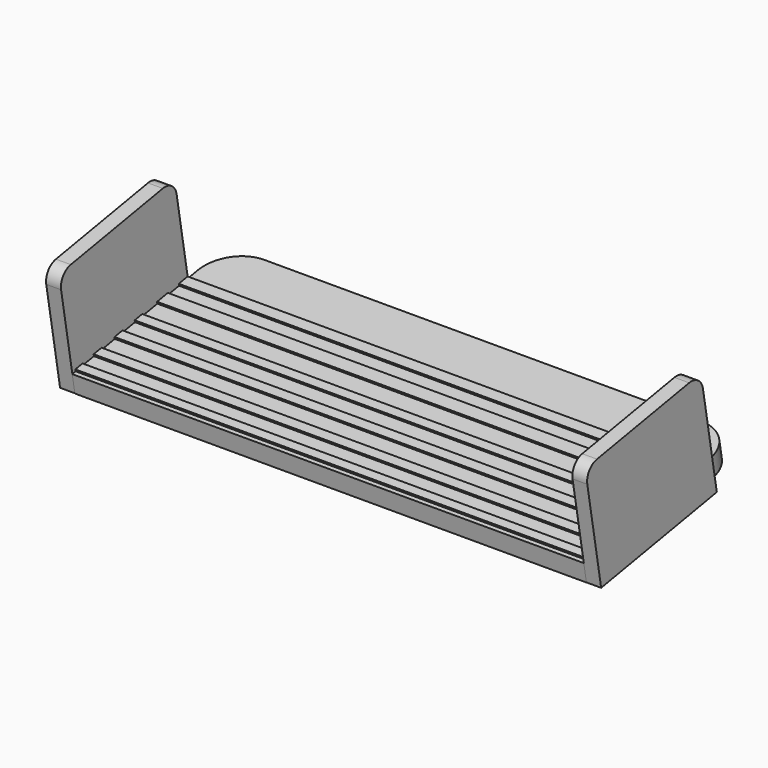
from build123d import *

# Parameters (mm, degrees)
F0_W          = 174.6804863214
F0_H          = 6.394301774
F1_DEPTH      = 67.056
F2_R          = 12.7
F3_ANGLE      = 10
F4_W          = 174.6804863214
F4_H          = 3.8374643773
F4_H_2        = 3.2865575018
F4_H_3        = 4.6590082347
F4_H_4        = 3.4464076161
F4_H_5        = 3.4266933799
F4_H_6        = 3.1117796898
F5_DEPTH      = 0.635
F6_DEPTH      = 32.766
F6_DEPTH_BACK = 6.35
F7_R          = 5.08


with BuildPart() as f1:
    # F0 (on Front) → F1 (new body)
    with BuildSketch(Plane.XZ):
        with Locations((4.4365723152, 0.0675924821)):
            Rectangle(F0_W, F0_H)
    extrude(amount=F1_DEPTH)

    # F2
    f2_edges = [f1.edges().sort_by_distance(p)[0] for p in [
        (-82.903671, 0, 0.067592),
        (91.776815, 0, 0.067592),
    ]]
    fillet(f2_edges, radius=F2_R)


with BuildPart() as f1_1:
    # F3: moved
    add(f1.part.rotate(Axis((4.4365723152, 0, 3.2647433691), (1, 0, 0)), F3_ANGLE))

    # F4 (on face) → F5 (join)
    with BuildSketch(Plane(origin=(0, -0.5583039975, 3.1662993109), x_dir=(1, 0, 0), z_dir=(0, -0.1736481777, 0.984807753))):
        with Locations((4.4365723152, -18.2853909209)):
            Rectangle(F4_W, F4_H)
        with Locations((4.4365723152, -37.6678045125)):
            Rectangle(F4_W, F4_H_2)
        with Locations((4.4365723152, -27.2829253227)):
            Rectangle(F4_W, F4_H_3)
        with Locations((4.4365723152, -46.3344976306)):
            Rectangle(F4_W, F4_H_4)
        with Locations((4.4365723152, -55.3813166916)):
            Rectangle(F4_W, F4_H_5)
        with Locations((4.4365723152, -63.4787082672)):
            Rectangle(F4_W, F4_H_6)
    extrude(amount=F5_DEPTH)

    # F4 (on face) → F6 (join, two sides)
    with BuildSketch(Plane(origin=(0, -0.5583039975, 3.1662993109), x_dir=(1, 0, 0), z_dir=(0, -0.1736481777, 0.984807753))) as f6_sk:
        Polygon((-82.9036708456, -66.4382055402), (-82.9036708456, -65.0345981121), (-82.9036708456, -61.9228184223), (-82.9036708456, -57.0946633816), (-82.9036708456, -53.6679700017), (-82.9036708456, -48.0577014387), (-82.9036708456, -44.6112938225), (-82.9036708456, -39.3110832634), (-82.9036708456, -36.0245257616), (-82.9036708456, -29.61242944), (-82.9036708456, -24.9534212053), (-82.9036708456, -20.2041231096), (-82.9036708456, -16.3666587323), (-87.9721194506, -16.3666587323), (-87.9721194506, -66.4382055402), align=None)
        Polygon((91.7768154759, -61.9228184223), (91.7768154759, -65.0345981121), (91.7768154759, -66.4890832634), (96.8134328723, -66.4890832634), (96.8134328723, -16.3666587323), (91.7768154759, -16.3666587323), (91.7768154759, -20.2041231096), (91.7768154759, -24.9534212053), (91.7768154759, -29.61242944), (91.7768154759, -36.0245257616), (91.7768154759, -39.3110832634), (91.7768154759, -44.6112938225), (91.7768154759, -48.0577014387), (91.7768154759, -53.6679700017), (91.7768154759, -57.0946633816), align=None)
    extrude(amount=F6_DEPTH)
    extrude(f6_sk.sketch, amount=-F6_DEPTH_BACK)

    # F7
    f7_edges = [f1_1.edges().sort_by_distance(p)[0] for p in [
        (94.295124, -22.366073, 32.59247),
        (-85.437895, -22.366073, 32.59247),
        (-85.437895, -71.67692, 23.897637),
        (94.295124, -71.727025, 23.888802),
    ]]
    fillet(f7_edges, radius=F7_R)


solid = f1_1.part
